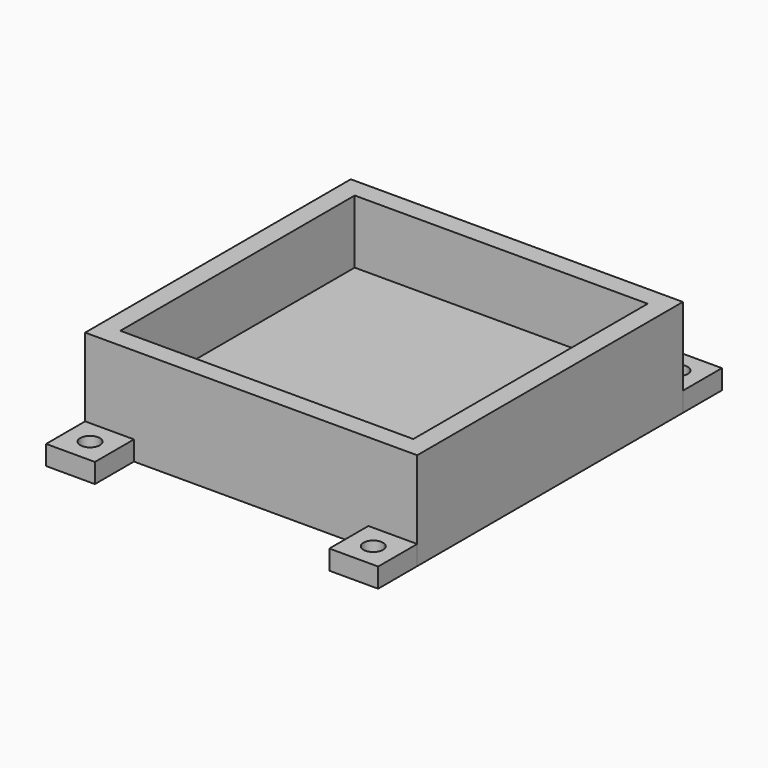
from build123d import *

# Parameters (mm, degrees)
SKETCH_W        = 68
SKETCH_H        = 20
PAD_DEPTH       = 68
SKETCH001_W     = 60
SKETCH001_H     = 60
POCKET_DEPTH    = 13
SKETCH002_W     = 10
SKETCH002_H     = 4
PAD001_DEPTH    = 10
SKETCH003_W     = 10
SKETCH003_H     = 4
PAD002_DEPTH    = 10
SKETCH004_W     = 10
SKETCH004_H     = 4
PAD003_DEPTH    = 10
SKETCH005_R     = 2
POCKET001_DEPTH = 4
SKETCH006_R     = 2
POCKET002_DEPTH = 4
SKETCH007_R     = 2
POCKET003_DEPTH = 4
SKETCH008_R     = 2
POCKET004_DEPTH = 4
POCKET005_DEPTH = 3


with BuildPart() as pocket:
    # Sketch → Pad (new body)
    with BuildSketch(Plane.XZ):
        Rectangle(SKETCH_W, SKETCH_H)
    extrude(amount=PAD_DEPTH)

    # Sketch001 → Pocket (cut)
    with BuildSketch(Plane(origin=(0, 0, 10), x_dir=(-1, 0, 0), z_dir=(0, 0, 1))):
        with Locations((0, 34)):
            Rectangle(SKETCH001_W, SKETCH001_H)
    extrude(amount=-POCKET_DEPTH, mode=Mode.SUBTRACT)


with BuildPart() as forat4:
    # Pad001 base: copy of Pocket
    add(pocket.part)

    # Sketch002 → Pad001 (new body)
    with BuildSketch(Plane.XZ.offset(68)):
        with Locations((-29, -8)):
            Rectangle(SKETCH002_W, SKETCH002_H)
        with Locations((29, -8)):
            Rectangle(SKETCH002_W, SKETCH002_H)
    extrude(amount=PAD001_DEPTH)

    # Sketch003 → Pad002 (new body)
    with BuildSketch(Plane(origin=(0, 0, 0), x_dir=(1, 0, 0), z_dir=(0, 1, 0))):
        with Locations((-29, 8)):
            Rectangle(SKETCH003_W, SKETCH003_H)
        with Locations((29, 8)):
            Rectangle(SKETCH003_W, SKETCH003_H)
    extrude(amount=PAD002_DEPTH)

    # Sketch004 → Pad003 (new body)
    with BuildSketch(Plane(origin=(0, 0, 0), x_dir=(1, 0, 0), z_dir=(0, 1, 0))):
        with Locations((29, 8)):
            Rectangle(SKETCH004_W, SKETCH004_H)
    extrude(amount=PAD003_DEPTH)

    # Sketch005 → Pocket001 (cut)
    with BuildSketch(Plane(origin=(0, 0, -6), x_dir=(-1, 0, 0), z_dir=(0, 0, 1))):
        with Locations((-29, 73)):
            Circle(SKETCH005_R)
    extrude(amount=-POCKET001_DEPTH, mode=Mode.SUBTRACT)

    # Sketch006 → Pocket002 (cut)
    with BuildSketch(Plane(origin=(0, 0, -6), x_dir=(-1, 0, 0), z_dir=(0, 0, 1))):
        with Locations((29, 73)):
            Circle(SKETCH006_R)
    extrude(amount=-POCKET002_DEPTH, mode=Mode.SUBTRACT)

    # Sketch007 → Pocket003 (cut)
    with BuildSketch(Plane(origin=(0, 0, -6), x_dir=(-1, 0, 0), z_dir=(0, 0, 1))):
        with Locations((-29, -5)):
            Circle(SKETCH007_R)
    extrude(amount=-POCKET003_DEPTH, mode=Mode.SUBTRACT)

    # Sketch008 → Pocket004 (cut)
    with BuildSketch(Plane(origin=(0, 0, -6), x_dir=(-1, 0, 0), z_dir=(0, 0, 1))):
        with Locations((29, -5)):
            Circle(SKETCH008_R)
    extrude(amount=-POCKET004_DEPTH, mode=Mode.SUBTRACT)


with BuildPart() as pocket005:
    # Pocket005 base: copy of Pocket
    add(pocket.part)

    # Sketch010 → Pocket005 (cut)
    with BuildSketch(Plane(origin=(0, 0, -10), x_dir=(1, 0, 0), z_dir=(0, 0, -1))):
        with BuildLine():
            Line((-1.5, 37.593671), (-1.5, 40.885572))
            ThreePointArc((1.5, 40.885572), (0, 42.385572), (-1.5, 40.885572))
            Line((1.5, 40.885572), (1.5, 37.593671))
            Line((1.5, 37.593671), (17.210148, 35.370778))
            ThreePointArc((17.210148, 32.400366), (18.5, 33.885572), (17.210148, 35.370778))
            Line((17.210148, 32.400366), (1.5, 30.177473))
            Line((1.5, 30.177473), (1.5, 26.885572))
            ThreePointArc((-1.5, 26.885572), (0, 25.385572), (1.5, 26.885572))
            Line((-1.5, 26.885572), (-1.5, 30.177473))
            Line((-1.5, 30.177473), (-15.240035, 32.404902))
            ThreePointArc((-15.240035, 35.366242), (-16.5, 33.885572), (-15.240035, 32.404902))
            Line((-15.240035, 35.366242), (-1.5, 37.593671))
        make_face()
    extrude(amount=-POCKET005_DEPTH, mode=Mode.SUBTRACT)


solid = Compound([forat4.part, pocket005.part])
